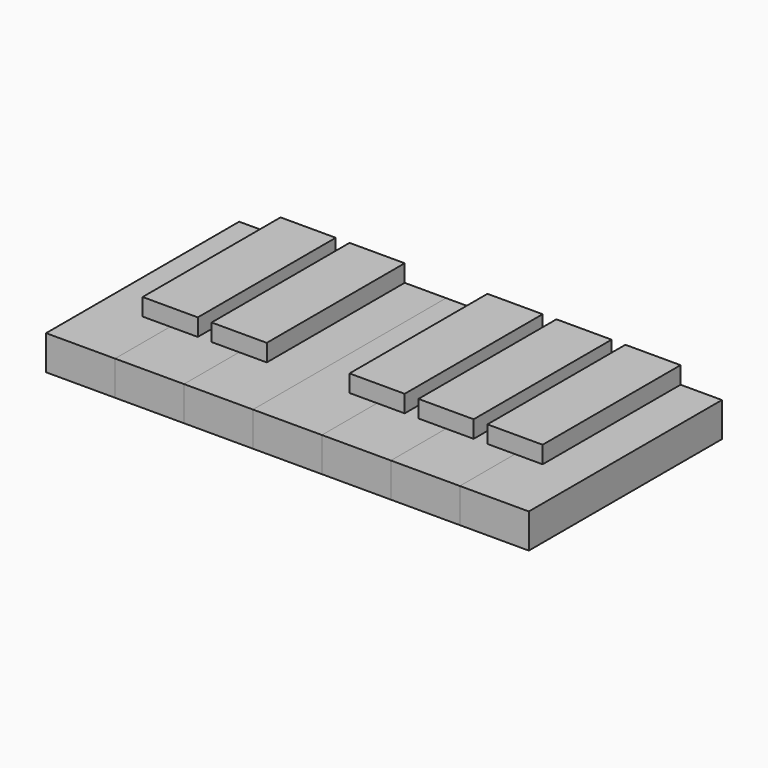
from build123d import *

# Parameters (mm, degrees)
BOX_W        = 20
BOX_H        = 70
BOX_DEPTH    = 10
BOX001_W     = 20
BOX001_H     = 70
BOX001_DEPTH = 10
BOX002_W     = 20
BOX002_H     = 70
BOX002_DEPTH = 10
BOX003_W     = 20
BOX003_H     = 70
BOX003_DEPTH = 10
BOX004_W     = 20
BOX004_H     = 70
BOX004_DEPTH = 10
BOX005_W     = 20
BOX005_H     = 70
BOX005_DEPTH = 10
BOX006_W     = 20
BOX006_H     = 70
BOX006_DEPTH = 10
BOX007_W     = 16
BOX007_H     = 50
BOX007_DEPTH = 10
BOX008_W     = 16
BOX008_H     = 50
BOX008_DEPTH = 10
BOX009_W     = 16
BOX009_H     = 50
BOX009_DEPTH = 10
BOX010_W     = 16
BOX010_H     = 50
BOX010_DEPTH = 10
BOX011_W     = 16
BOX011_H     = 50
BOX011_DEPTH = 10


with BuildPart() as c:
    # Box → Box (new body)
    with BuildSketch(Plane.XY):
        with Locations((10, 35)):
            Rectangle(BOX_W, BOX_H)
    extrude(amount=BOX_DEPTH)


with BuildPart() as d:
    # Box001 → Box001 (new body)
    with BuildSketch(Plane(origin=(20, 0, 0), x_dir=(1, 0, 0), z_dir=(0, 0, 1))):
        with Locations((10, 35)):
            Rectangle(BOX001_W, BOX001_H)
    extrude(amount=BOX001_DEPTH)


with BuildPart() as e:
    # Box002 → Box002 (new body)
    with BuildSketch(Plane(origin=(40, 0, 0), x_dir=(1, 0, 0), z_dir=(0, 0, 1))):
        with Locations((10, 35)):
            Rectangle(BOX002_W, BOX002_H)
    extrude(amount=BOX002_DEPTH)


with BuildPart() as f:
    # Box003 → Box003 (new body)
    with BuildSketch(Plane(origin=(60, 0, 0), x_dir=(1, 0, 0), z_dir=(0, 0, 1))):
        with Locations((10, 35)):
            Rectangle(BOX003_W, BOX003_H)
    extrude(amount=BOX003_DEPTH)


with BuildPart() as g:
    # Box004 → Box004 (new body)
    with BuildSketch(Plane(origin=(80, 0, 0), x_dir=(1, 0, 0), z_dir=(0, 0, 1))):
        with Locations((10, 35)):
            Rectangle(BOX004_W, BOX004_H)
    extrude(amount=BOX004_DEPTH)


with BuildPart() as a:
    # Box005 → Box005 (new body)
    with BuildSketch(Plane(origin=(100, 0, 0), x_dir=(1, 0, 0), z_dir=(0, 0, 1))):
        with Locations((10, 35)):
            Rectangle(BOX005_W, BOX005_H)
    extrude(amount=BOX005_DEPTH)


with BuildPart() as b:
    # Box006 → Box006 (new body)
    with BuildSketch(Plane(origin=(120, 0, 0), x_dir=(1, 0, 0), z_dir=(0, 0, 1))):
        with Locations((10, 35)):
            Rectangle(BOX006_W, BOX006_H)
    extrude(amount=BOX006_DEPTH)


with BuildPart() as box007:
    # Box007 → Box007 (new body)
    with BuildSketch(Plane(origin=(12, 20, 5), x_dir=(1, 0, 0), z_dir=(0, 0, 1))):
        with Locations((8, 25)):
            Rectangle(BOX007_W, BOX007_H)
    extrude(amount=BOX007_DEPTH)


with BuildPart() as box008:
    # Box008 → Box008 (new body)
    with BuildSketch(Plane(origin=(32, 20, 5), x_dir=(1, 0, 0), z_dir=(0, 0, 1))):
        with Locations((8, 25)):
            Rectangle(BOX008_W, BOX008_H)
    extrude(amount=BOX008_DEPTH)


with BuildPart() as box009:
    # Box009 → Box009 (new body)
    with BuildSketch(Plane(origin=(72, 20, 5), x_dir=(1, 0, 0), z_dir=(0, 0, 1))):
        with Locations((8, 25)):
            Rectangle(BOX009_W, BOX009_H)
    extrude(amount=BOX009_DEPTH)


with BuildPart() as box010:
    # Box010 → Box010 (new body)
    with BuildSketch(Plane(origin=(92, 20, 5), x_dir=(1, 0, 0), z_dir=(0, 0, 1))):
        with Locations((8, 25)):
            Rectangle(BOX010_W, BOX010_H)
    extrude(amount=BOX010_DEPTH)


with BuildPart() as box011:
    # Box011 → Box011 (new body)
    with BuildSketch(Plane(origin=(112, 20, 5), x_dir=(1, 0, 0), z_dir=(0, 0, 1))):
        with Locations((8, 25)):
            Rectangle(BOX011_W, BOX011_H)
    extrude(amount=BOX011_DEPTH)


solid = Compound([c.part, d.part, e.part, f.part, g.part, a.part, b.part, box007.part, box008.part, box009.part, box010.part, box011.part])
